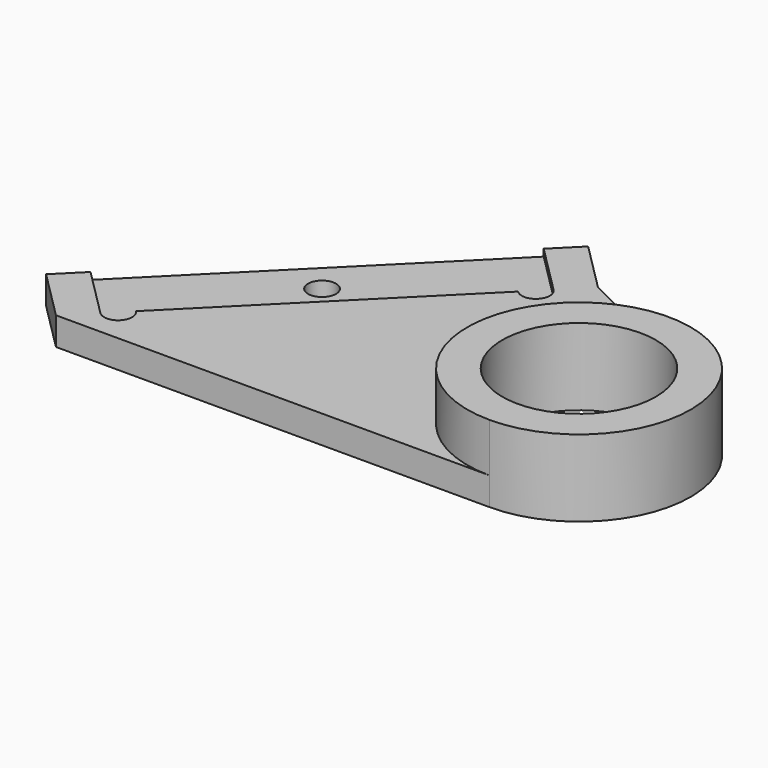
from build123d import *

# Parameters (mm, degrees)
SKETCH_R        = 11
SKETCH_R_2      = 2
PAD_DEPTH       = 11
POCKET_DEPTH    = 7
POCKET001_DEPTH = 1


with BuildPart() as part:
    # Sketch → Pad (new body)
    with BuildSketch(Plane.XY):
        with BuildLine():
            Line((0, -16), (-62.122878, -16))
            Line((-62.122878, -16), (-69.193946, -8.928932))
            Line((-69.193946, -8.928932), (-26.060432, 34.204581))
            Line((-26.060432, 34.204581), (-18.989365, 27.133514))
            Line((-18.989365, 27.133514), (7.04521, 14.36541))
            ThreePointArc((0, -16), (15.585996, -3.616174), (7.04521, 14.36541))
        make_face()
        Circle(SKETCH_R, mode=Mode.SUBTRACT)
        with Locations((-44.091655, 9.102291)):
            Circle(SKETCH_R_2, mode=Mode.SUBTRACT)
    extrude(amount=PAD_DEPTH)

    # Sketch002 → Pocket (cut)
    with BuildSketch(Plane.XY.offset(11)):
        with BuildLine():
            Line((7.04521, 14.36541), (-18.989365, 27.133514))
            Line((-18.989365, 27.133514), (-26.060432, 34.204581))
            Line((-26.060432, 34.204581), (-69.193946, -8.928932))
            Line((-69.193946, -8.928932), (-62.122878, -16))
            Line((-62.122878, -16), (0, -16))
            ThreePointArc((7.04521, 14.36541), (-15.585996, 3.616174), (0, -16))
        make_face()
    extrude(amount=-POCKET_DEPTH, mode=Mode.SUBTRACT)

    # Sketch003 → Pocket001 (cut)
    with BuildSketch(Plane.XY.offset(4)):
        with BuildLine():
            Line((-65.658412, -5.393398), (-58.587344, -12.464466))
            ThreePointArc((-58.587344, -12.464466), (-55.758917, -12.464466), (-55.758917, -9.636039))
            Line((-25.353326, 20.769553), (-55.758917, -9.636039))
            ThreePointArc((-25.353326, 20.769553), (-22.524899, 20.769553), (-22.524899, 23.59798))
            Line((-29.595966, 30.669048), (-22.524899, 23.59798))
            Line((-65.658412, -5.393398), (-29.595966, 30.669048))
        make_face()
    extrude(amount=-POCKET001_DEPTH, mode=Mode.SUBTRACT)


solid = part.part
